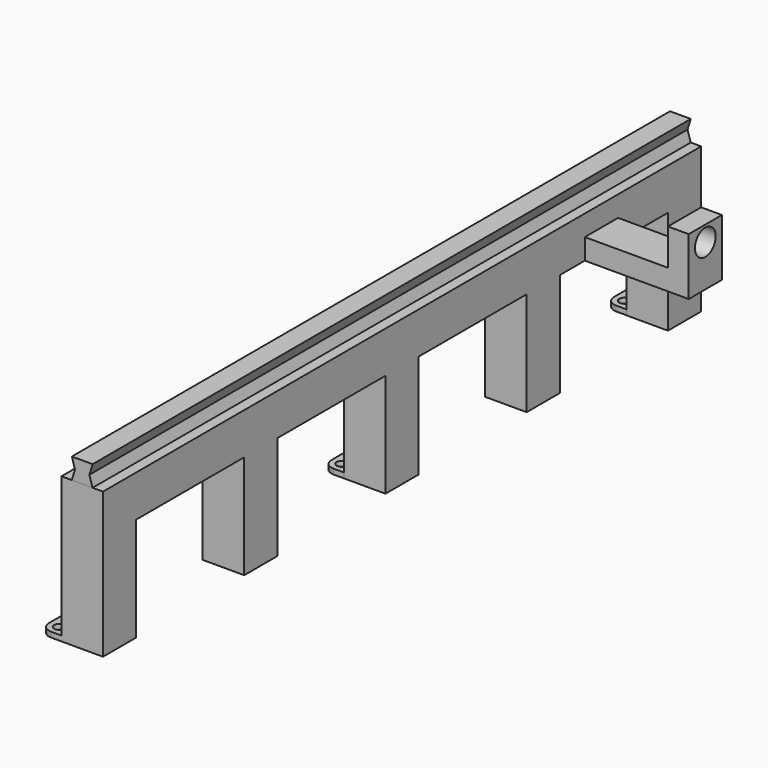
from build123d import *

# Parameters (mm, degrees)
F1_DEPTH  = 50.8
F3_DEPTH  = 914.4
F6_DEPTH  = 50.8
F8_R      = 15.875
F9_DEPTH  = 25.4
F11_R     = 6.35
F12_DEPTH = 6.35


with BuildPart() as f1:
    # F0 (on Right) → F1 (new body)
    with BuildSketch(Plane.YZ):
        Polygon((914.4, 0), (0, 0), (0, -177.8), (50.8, -177.8), (50.8, -50.8), (215.9, -50.8), (215.9, -177.8), (266.7, -177.8), (266.7, -50.8), (431.8, -50.8), (431.8, -177.8), (482.6, -177.8), (482.6, -50.8), (647.7, -50.8), (647.7, -177.8), (698.5, -177.8), (698.5, -50.8), (863.6, -50.8), (863.6, -177.8), (914.4, -177.8), align=None)
    extrude(amount=F1_DEPTH)

    # F5 (on offset) → F6 (join)
    with BuildSketch(Plane.XZ.offset(-736.6)):
        Polygon((50.8, -25.4), (50.8, -50.8), (177.8, -50.8), (177.8, 19.05), (152.4, 19.05), (152.4, -25.4), align=None)
    extrude(amount=-F6_DEPTH)

    # F8 (on offset) → F9 (cut)
    with BuildSketch(Plane.YZ.offset(177.8)):
        with Locations((762, 0)):
            Circle(F8_R)
    extrude(amount=-F9_DEPTH, mode=Mode.SUBTRACT)

    # F11 (on offset) → F12 (join)
    with BuildSketch(Plane(origin=(0, 0, -177.8), x_dir=(1, 0, 0), z_dir=(0, 0, -1))):
        with BuildLine():
            Line((0, -51.0998591781), (0, 0))
            Line((0, 0), (-12.7, 0))
            ThreePointArc((-12.7, 0), (-21.6802561211, -3.7197438789), (-25.4, -12.7))
            Line((-25.4, -12.7), (-25.4, -38.3998591781))
            ThreePointArc((-25.4, -38.3998591781), (-21.6802561211, -47.3801152991), (-12.7, -51.0998591781))
            Line((-12.7, -51.0998591781), (0, -51.0998591781))
        make_face()
        with Locations((-12.7, -38.3998591781)):
            Circle(F11_R, mode=Mode.SUBTRACT)
        with Locations((-12.7, -12.7)):
            Circle(F11_R, mode=Mode.SUBTRACT)
        with BuildLine():
            Line((0, -914.598941803), (0, -863.798941803))
            Line((0, -863.798941803), (-12.7, -863.798941803))
            ThreePointArc((-12.7, -863.798941803), (-21.6802561211, -867.5186856819), (-25.4, -876.498941803))
            Line((-25.4, -876.498941803), (-25.4, -901.898941803))
            ThreePointArc((-25.4, -901.898941803), (-21.6802561211, -910.879197924), (-12.7, -914.598941803))
            Line((-12.7, -914.598941803), (0, -914.598941803))
        make_face()
        with Locations((-12.7, -901.898941803)):
            Circle(F11_R, mode=Mode.SUBTRACT)
        with Locations((-12.7, -876.498941803)):
            Circle(F11_R, mode=Mode.SUBTRACT)
        with BuildLine():
            Line((0, -482.620716095), (0, -431.820716095))
            Line((0, -431.820716095), (-12.7, -431.820716095))
            ThreePointArc((-12.7, -431.820716095), (-21.6802561211, -435.5404599739), (-25.4, -444.520716095))
            Line((-25.4, -444.520716095), (-25.4, -469.920716095))
            ThreePointArc((-25.4, -469.920716095), (-21.6802561211, -478.900972216), (-12.7, -482.620716095))
            Line((-12.7, -482.620716095), (0, -482.620716095))
        make_face()
        with Locations((-12.7, -469.920716095)):
            Circle(F11_R, mode=Mode.SUBTRACT)
        with Locations((-12.7, -444.520716095)):
            Circle(F11_R, mode=Mode.SUBTRACT)
    extrude(amount=-F12_DEPTH)


with BuildPart() as f3:
    # F2 (on Front) → F3 (new body)
    with BuildSketch(Plane.XZ):
        Polygon((16.6332703084, 12.7), (12.7, 0), (38.1, 0), (34.1667296916, 12.7), (38.1, 25.4), (12.7, 25.4), align=None)
    extrude(amount=-F3_DEPTH)


solid = Compound([f1.part, f3.part])
